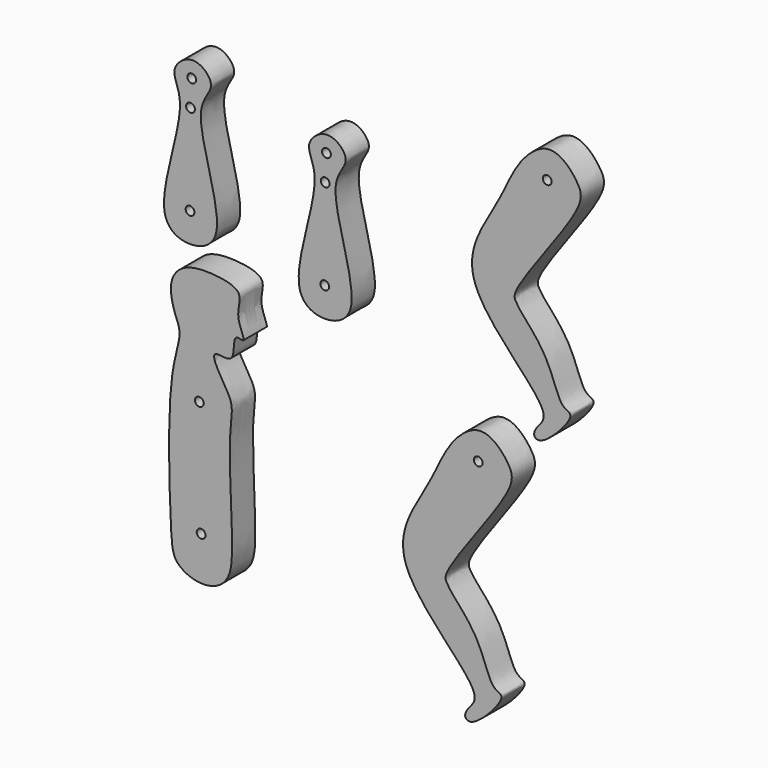
from build123d import *

# Parameters (mm, degrees)
F0_R     = 1.21
F1_DEPTH = 8


with BuildPart() as f1:
    # F0 (on Front) → F1 (new body)
    with BuildSketch(Plane.XZ):
        with BuildLine():
            add(Edge.make_bspline(
                [(-56.1035573142, 51.3061912625), (-55.8311474581, 44.0832811563), (-64.9210215804, 22.0719858395), (-53.4626646479, 16.4777791931), (-41.0059323854, 21.8710247207), (-54.4935671246, 51.8697660105), (-45.1641059298, 58.0141753331), (-52.319292557, 64.8912802364), (-59.74247627, 58.6629433518), (-56.246650133, 55.100277797), (-56.1035573142, 51.3061912625)],
                knots=[0, 0, 0, 0, 0.1957635838, 0.3035863679, 0.413487145, 0.6092507266, 0.7116444968, 0.8041594316, 0.8971683205, 1, 1, 1, 1], degree=3))
        make_face()
        with Locations((-53.3207207918, 26.012936607)):
            Circle(F0_R, mode=Mode.SUBTRACT)
        with Locations((-53.1886219978, 51.0714538395)):
            Circle(F0_R, mode=Mode.SUBTRACT)
        with Locations((-52.8395287693, 58.3027154207)):
            Circle(F0_R, mode=Mode.SUBTRACT)
    extrude(amount=F1_DEPTH)


with BuildPart() as f1b:
    # F0 (on Front) → F1, piece 2 (new body)
    with BuildSketch(Plane.XZ):
        with BuildLine():
            add(Edge.make_bspline(
                [(-58.2424210501, -15.5673451349), (-59.6635376578, -25.9167055457), (-58.7941472449, -53.2337382337), (-57.8428141527, -60.7921905433), (-51.5600680213, -63.9605164351), (-45.7534997419, -63.1588919581), (-42.5275694173, -59.7979752945), (-41.014577281, -53.0302336521), (-43.2450416036, -24.6555421712), (-40.8744094678, -17.1174224028), (-45.3257629932, -11.2679824767), (-47.9460818415, -5.050527296), (-40.2164605786, -8.2049296087), (-42.0049138669, 0.7878453699), (-37.1008598242, -1.9135753557), (-41.392476256, 4.8381725202), (-37.7331131916, 11.5316612689), (-48.0321332011, 13.0422536954), (-53.3818196141, 12.4952602632), (-56.8879202439, 10.6494812402), (-59.2121499244, 6.6518032346), (-57.8190650714, -0.1747880074), (-55.2089028865, -4.8914182296), (-57.4684021172, -9.9305093841), (-58.2424210501, -15.5673451349)],
                knots=[0, 0, 0, 0, 0.1044201011, 0.1500247743, 0.1912637038, 0.2312968862, 0.2648416336, 0.3093220448, 0.3995984943, 0.4470520226, 0.4925011328, 0.5270745184, 0.5623888094, 0.6023867596, 0.6265119541, 0.6655589081, 0.7068781018, 0.7549194178, 0.795854458, 0.8278720996, 0.8627244359, 0.9065489369, 0.9431270209, 1, 1, 1, 1], degree=3))
        make_face()
        with Locations((-50.2607679068, -51.4171453479)):
            Circle(F0_R, mode=Mode.SUBTRACT)
        with Locations((-50.7418774068, -19.5466913283)):
            Circle(F0_R, mode=Mode.SUBTRACT)
    extrude(amount=F1_DEPTH)


with BuildPart() as f1c:
    # F0 (on Front) → F1, piece 3 (new body)
    with BuildSketch(Plane.XZ):
        with BuildLine():
            add(Edge.make_bspline(
                [(25.6325822598, -1.5800003185), (27.3882082615, -1.1480471725), (30.8004780971, -2.1893873497), (35.0782976894, -7.2731339059), (36.8855852534, -13.4030741456), (15.5760246504, -38.5455291818), (17.6795218125, -41.4722914533), (18.8777627487, -43.5933057838), (26.666293936, -51.402205633), (29.2942289329, -62.1464479036), (31.8009125159, -63.1565146987), (33.7936591102, -64.6152873972), (25.2210995636, -73.912071521), (22.1276514969, -72.5498665399), (23.1504549823, -69.6748232922), (29.2930707477, -64.8678013734), (-2.4976751505, -40.7835168954), (12.6543728909, -20.3403794087), (17.4245738799, -7.2293551048), (23.29396593, -2.1553920476), (25.6325822598, -1.5800003185)],
                knots=[0, 0, 0, 0, 0.0442149337, 0.0928380778, 0.1411340111, 0.2518027309, 0.2819259493, 0.3108773202, 0.3768110193, 0.441978986, 0.4714654235, 0.4948275222, 0.5616264191, 0.5901030269, 0.620752095, 0.6629658281, 0.7746282034, 0.8654991179, 0.9411026234, 1, 1, 1, 1], degree=3))
        make_face()
        with Locations((26.1737107103, -9.0205228868)):
            Circle(F0_R, mode=Mode.SUBTRACT)
    extrude(amount=F1_DEPTH)


with BuildPart() as f1d:
    # F0 (on Front) → F1, piece 4 (new body)
    with BuildSketch(Plane.XZ):
        with BuildLine():
            add(Edge.make_bspline(
                [(-18.94928642, 45.2704063669), (-18.6768765638, 38.0474962607), (-27.7667506861, 16.0362009438), (-16.3083937536, 10.4419942975), (-3.8516614912, 15.8352398251), (-17.3392962304, 45.8339811149), (-8.0098350356, 51.9783904375), (-15.1650216627, 58.8554953408), (-22.5882053758, 52.6271584562), (-19.0923792388, 49.0644929014), (-18.94928642, 45.2704063669)],
                knots=[0, 0, 0, 0, 0.1957635838, 0.3035863679, 0.413487145, 0.6092507266, 0.7116444968, 0.8041594316, 0.8971683205, 1, 1, 1, 1], degree=3))
        make_face()
        with Locations((-16.1664498976, 19.9771517114)):
            Circle(F0_R, mode=Mode.SUBTRACT)
        with Locations((-16.0343511036, 45.0356689439)):
            Circle(F0_R, mode=Mode.SUBTRACT)
        with Locations((-15.685257875, 52.2669305251)):
            Circle(F0_R, mode=Mode.SUBTRACT)
    extrude(amount=F1_DEPTH)


with BuildPart() as f1e:
    # F0 (on Front) → F1, piece 5 (new body)
    with BuildSketch(Plane.XZ):
        with BuildLine():
            add(Edge.make_bspline(
                [(44.6643542402, 72.9489258957), (46.4199802419, 73.3808790417), (49.8322500775, 72.3395388645), (54.1100696698, 67.2557923083), (55.9173572338, 61.1258520686), (34.6077966309, 35.9833970324), (36.7112937929, 33.0566347609), (37.9095347291, 30.9356204304), (45.6980659164, 23.1267205812), (48.3260009133, 12.3824783106), (50.8326844963, 11.3724115155), (52.8254310906, 9.913638817), (44.252871544, 0.6168546932), (41.1594234773, 1.9790596743), (42.1822269627, 4.8541029221), (48.3248427281, 9.6611248408), (16.5340968299, 33.7454093188), (31.6861448713, 54.1885468055), (36.4563458603, 67.2995711094), (42.3257379105, 72.3735341666), (44.6643542402, 72.9489258957)],
                knots=[0, 0, 0, 0, 0.0442149337, 0.0928380778, 0.1411340111, 0.2518027309, 0.2819259493, 0.3108773202, 0.3768110193, 0.441978986, 0.4714654235, 0.4948275222, 0.5616264191, 0.5901030269, 0.620752095, 0.6629658281, 0.7746282034, 0.8654991179, 0.9411026234, 1, 1, 1, 1], degree=3))
        make_face()
        with Locations((45.2054826907, 65.5084033274)):
            Circle(F0_R, mode=Mode.SUBTRACT)
    extrude(amount=F1_DEPTH)


solid = Compound([f1.part, f1b.part, f1c.part, f1d.part, f1e.part])
